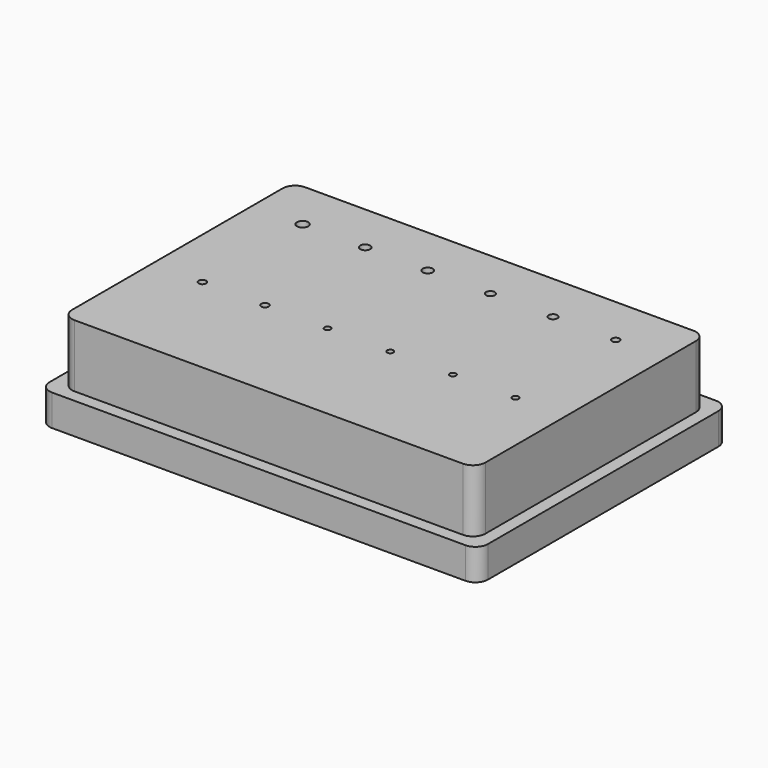
from build123d import *

# Parameters (mm, degrees)
F0_W     = 70
F0_H     = 50
F1_DEPTH = 5
F2_W     = 66
F2_H     = 46
F3_DEPTH = 10
F4_R     = 2
F5_R     = 0.5
F5_R_2   = 0.6
F5_R_3   = 0.7
F5_R_4   = 0.8
F5_R_5   = 0.9
F6_DEPTH = 10


with BuildPart() as f1:
    # F0 (on Top) → F1 (new body)
    with BuildSketch(Plane.XY):
        Rectangle(F0_W, F0_H)
    extrude(amount=F1_DEPTH)

    # F2 (on face) → F3 (join)
    with BuildSketch(Plane.XY.offset(5)):
        Rectangle(F2_W, F2_H)
    extrude(amount=F3_DEPTH)

    # F4
    f4_edges = [f1.edges().sort_by_distance(p)[0] for p in [
        (-33, -23, 10),
        (33, -23, 10),
        (35, -25, 2.5),
        (-35, -25, 2.5),
        (-35, 25, 2.5),
        (-33, 23, 10),
        (33, 23, 10),
        (35, 25, 2.5),
    ]]
    fillet(f4_edges, radius=F4_R)

    # F5 (on face) → F6 (cut)
    with BuildSketch(Plane.XY.offset(15)):
        with Locations((25, -5)):
            Circle(F5_R)
        with Locations((15, -5)):
            Circle(F5_R)
        with Locations((5, -5)):
            Circle(F5_R)
        with Locations((-5, -5)):
            Circle(F5_R)
        with Locations((-15, -5)):
            Circle(F5_R_2)
        with Locations((-25, -5)):
            Circle(F5_R_2)
        with Locations((25, 15)):
            Circle(F5_R_2)
        with Locations((15, 15)):
            Circle(F5_R_3)
        with Locations((5, 15)):
            Circle(F5_R_3)
        with Locations((-5, 15)):
            Circle(F5_R_4)
        with Locations((-15, 15)):
            Circle(F5_R_4)
        with Locations((-25, 15)):
            Circle(F5_R_5)
    extrude(amount=-F6_DEPTH, mode=Mode.SUBTRACT)


solid = f1.part
